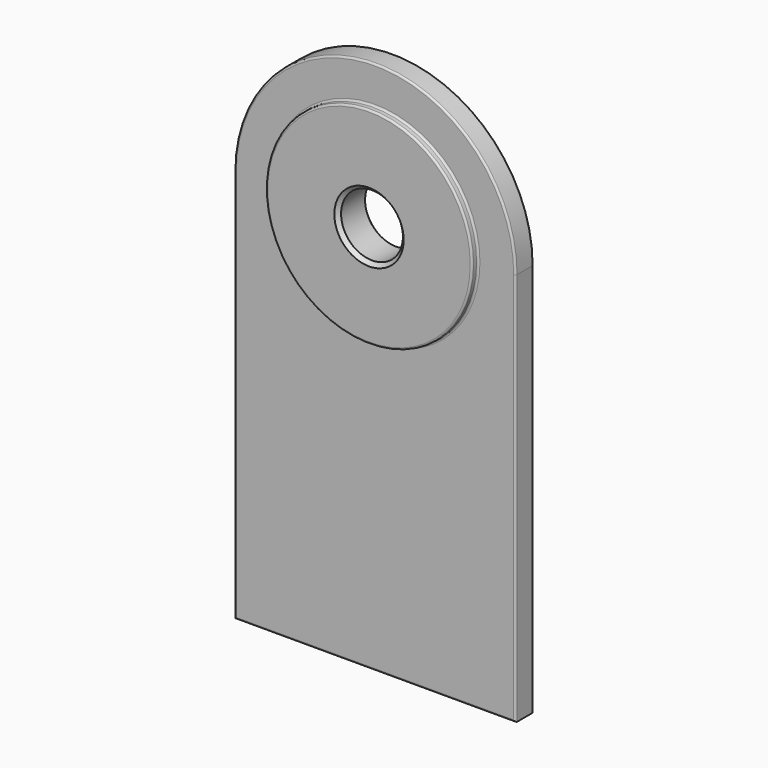
from build123d import *

# Parameters (mm, degrees)
F0_R     = 55
F1_DEPTH = 6
F0_R_2   = 16.5
F2_DEPTH = 10
F3_SIZE  = 2
F4_R     = 1
F5_R     = 1


with BuildPart() as f1:
    # F0 (on Front) → F1 (new body, symmetric)
    with BuildSketch(Plane.XZ):
        with BuildLine():
            Line((75, -210), (75, 0))
            ThreePointArc((75, 0), (0, 75), (-75, 0))
            Line((-75, 0), (-75, -210))
            Line((-75, -210), (75, -210))
        make_face()
        Circle(F0_R, mode=Mode.SUBTRACT)
    extrude(amount=F1_DEPTH, both=True)

    # F0 (on Front) → F2 (join, symmetric)
    with BuildSketch(Plane.XZ):
        Circle(F0_R)
        Circle(F0_R_2, mode=Mode.SUBTRACT)
    extrude(amount=F2_DEPTH, both=True)

    # F3
    f3_edges = [f1.edges().sort_by_distance(p)[0] for p in [
        (-16.5, -10, 0),
        (-16.5, 10, 0),
    ]]
    chamfer(f3_edges, length=F3_SIZE)

    # F4
    f4_edges = [f1.edges().sort_by_distance(p)[0] for p in [
        (-55, 10, 0),
        (-75, 6, -105),
        (0, 6, -210),
        (75, 6, -105),
        (0, 6, 75),
        (-55, 6, 0),
        (-75, -6, -105),
        (0, -6, -210),
        (75, -6, -105),
        (0, -6, 75),
        (-55, -6, 0),
    ]]
    fillet(f4_edges, radius=F4_R)

    # F5
    f5_edges = [f1.edges().sort_by_distance(p)[0] for p in [
        (-55, -10, 0),
    ]]
    fillet(f5_edges, radius=F5_R)


solid = f1.part
